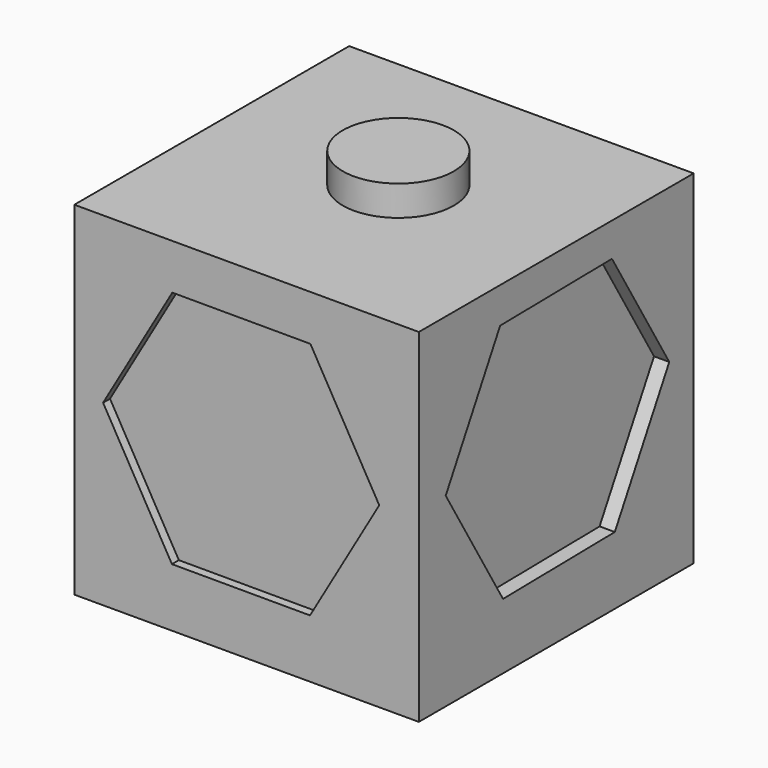
from build123d import *

# Parameters (mm, degrees)
F0_W      = 100.361844
F0_H      = 100.074067
F1_DEPTH  = 100
F3_DEPTH  = 114
F4_W      = 94.14474
F4_H      = 94.934216
F5_DEPTH  = 95
F7_DEPTH  = 134
F8_W      = 92.072367
F8_H      = 92.960529
F9_DEPTH  = 94.6
F10_R     = 16.177591
F11_DEPTH = 8.8


with BuildPart() as f1:
    # F0 (on Top) → F1 (new body)
    with BuildSketch(Plane.XY):
        with Locations((-19.835529, -13.769492)):
            Rectangle(F0_W, F0_H)
    extrude(amount=F1_DEPTH)

    # F2 (on face) → F3 (cut)
    with BuildSketch(Plane.XZ.offset(63.806526)):
        Polygon((18.810559, 51.808965), (-1.24477, 86.677882), (-41.469803, 86.743916), (-61.639506, 51.941033), (-41.584177, 17.072116), (-1.359144, 17.006082), align=None)
    extrude(amount=-F3_DEPTH, mode=Mode.SUBTRACT)

    # F4 (on face) → F5 (join)
    with BuildSketch(Plane(origin=(-70.016451, 0, 0), x_dir=(0, -1, 0), z_dir=(-1, 0, 0))):
        with Locations((14.210526, 50.000002)):
            Rectangle(F4_W, F4_H)
    extrude(amount=-F5_DEPTH)

    # F6 (on face) → F7 (cut)
    with BuildSketch(Plane(origin=(-70.016451, 0, 0), x_dir=(0, -1, 0), z_dir=(-1, 0, 0))):
        Polygon((54.025555, 54.032898), (34.198133, 89.585522), (-6.505054, 90.190783), (-27.380819, 55.243419), (-7.553397, 19.690795), (33.149791, 19.085534), align=None)
    extrude(amount=-F7_DEPTH, mode=Mode.SUBTRACT)

    # F8 (on face) → F9 (join)
    with BuildSketch(Plane.XY.offset(100)):
        with Locations((-20.13158, -13.766448)):
            Rectangle(F8_W, F8_H)
    extrude(amount=-F9_DEPTH)

    # F10 (on face) → F11 (join)
    with BuildSketch(Plane.XY.offset(100)):
        with Locations((-18.50329, -10.213816)):
            Circle(F10_R)
    extrude(amount=F11_DEPTH)


solid = f1.part
